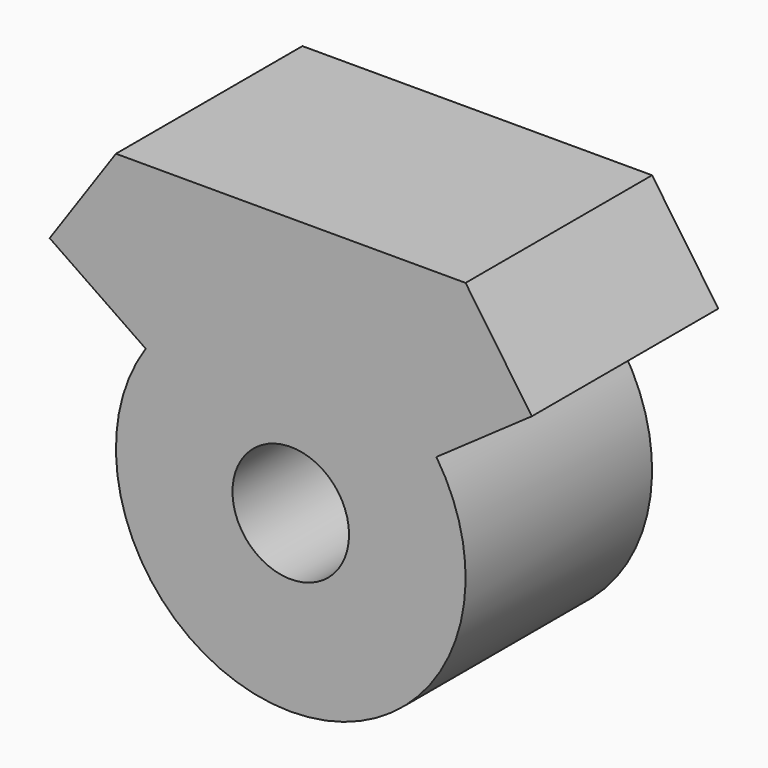
from build123d import *

# Parameters (mm, degrees)
F0_R     = 12.7
F1_DEPTH = 50.8


with BuildPart() as f1:
    # F0 (on Front) → F1 (new body)
    with BuildSketch(Plane.XZ):
        with BuildLine():
            Line((-52.54185, 35.658145), (-31.612512, 21.266384))
            ThreePointArc((-31.612512, 21.266384), (-0.107094, -38.099849), (31.731566, 21.088331))
            Line((31.731566, 21.088331), (52.537347, 35.658145))
            Line((52.537347, 35.658145), (38.097748, 56.554508))
            Line((38.097748, 56.554508), (-38.102252, 56.554508))
            Line((-38.102252, 56.554508), (-52.54185, 35.658145))
        make_face()
        Circle(F0_R, mode=Mode.SUBTRACT)
    extrude(amount=F1_DEPTH)


solid = f1.part
